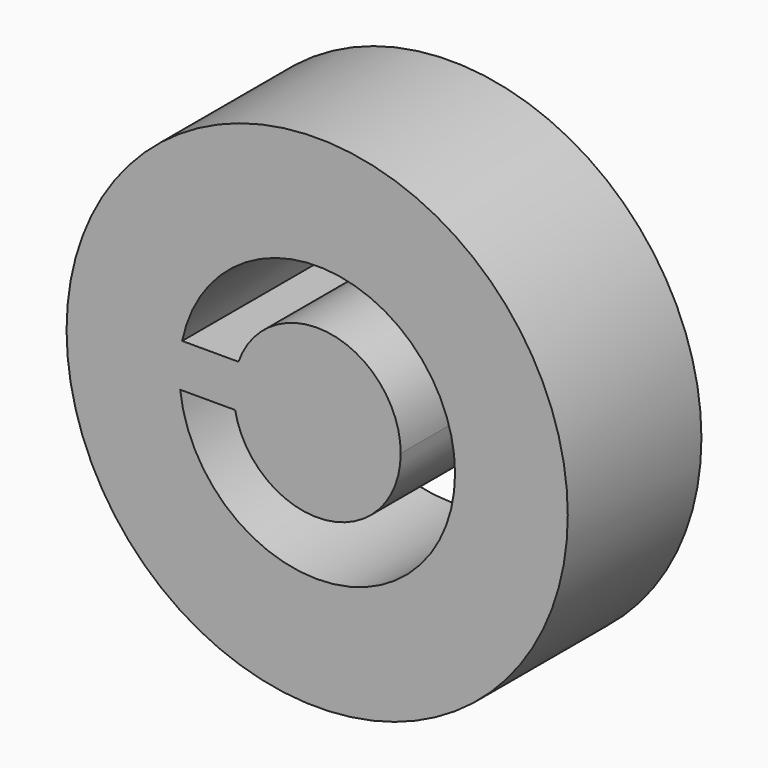
from build123d import *

# Parameters (mm, degrees)
F0_R     = 38.1
F1_DEPTH = 25.4


with BuildPart() as f1:
    # F0 (on Front) → F1 (new body)
    with BuildSketch(Plane.XZ):
        with Locations((-16.690101, 2.371612)):
            Circle(F0_R)
        with BuildLine():
            ThreePointArc((-37.216296, 6.621543), (-14.554015, 23.224039), (4.271449, 2.371612))
            ThreePointArc((4.271449, 2.371612), (-15.502387, -18.556262), (-37.517056, 0))
            ThreePointArc((-37.517056, 0), (-37.630062, 3.322735), (-37.216296, 6.621543))
        make_face(mode=Mode.SUBTRACT)
        with BuildLine():
            ThreePointArc((-3.990101, 2.371612), (-14.533829, 14.887222), (-28.657895, 6.621543))
            ThreePointArc((-28.657895, 6.621543), (-29.352773, 3.344618), (-29.166697, 0))
            ThreePointArc((-29.166697, 0), (-15.499045, -10.272414), (-3.990101, 2.371612))
        make_face()
        with BuildLine():
            Line((-28.657895, 6.621543), (-37.216296, 6.621543))
            ThreePointArc((-37.216296, 6.621543), (-37.630062, 3.322735), (-37.517056, 0))
            Line((-37.517056, 0), (-29.166697, 0))
            ThreePointArc((-29.166697, 0), (-29.352773, 3.344618), (-28.657895, 6.621543))
        make_face()
    extrude(amount=F1_DEPTH)


solid = f1.part
